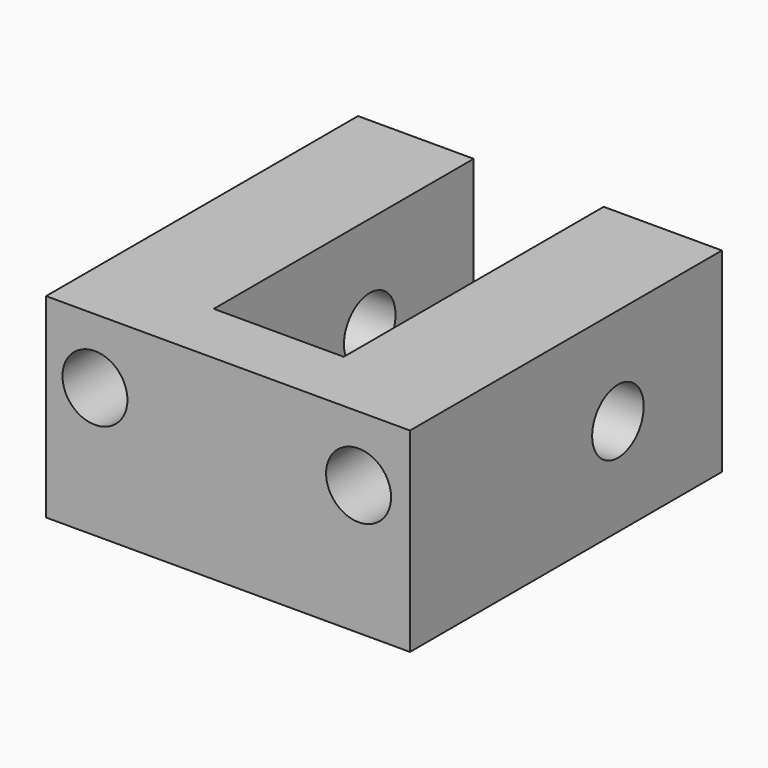
from build123d import *

# Parameters (mm, degrees)
F0_W     = 35.56
F0_H     = 38.1
F1_DEPTH = 19.05
F2_W     = 12.7
F2_H     = 31.75
F3_DEPTH = 19.05
F4_R     = 3.149107
F5_DEPTH = 35.56
F6_R     = 3.175
F7_DEPTH = 12.7


with BuildPart() as f1:
    # F0 (on Top) → F1 (new body)
    with BuildSketch(Plane.XY):
        with Locations((0.124468, 1.55243)):
            Rectangle(F0_W, F0_H)
    extrude(amount=F1_DEPTH)

    # F2 (on face) → F3 (cut)
    with BuildSketch(Plane.XY.offset(19.05)):
        with Locations((0, 4.72743)):
            Rectangle(F2_W, F2_H)
    extrude(amount=-F3_DEPTH, mode=Mode.SUBTRACT)

    # F4 (on face) → F5 (cut)
    with BuildSketch(Plane.YZ.offset(17.904468)):
        with Locations((7.90243, 9.525)):
            Circle(F4_R)
    extrude(amount=-F5_DEPTH, mode=Mode.SUBTRACT)

    # F6 (on face) → F7 (cut)
    with BuildSketch(Plane.XZ.offset(17.49757)):
        with Locations((-12.880332, 12.7)):
            Circle(F6_R)
        with Locations((12.880332, 12.7)):
            Circle(F6_R)
    extrude(amount=-F7_DEPTH, mode=Mode.SUBTRACT)


solid = f1.part
